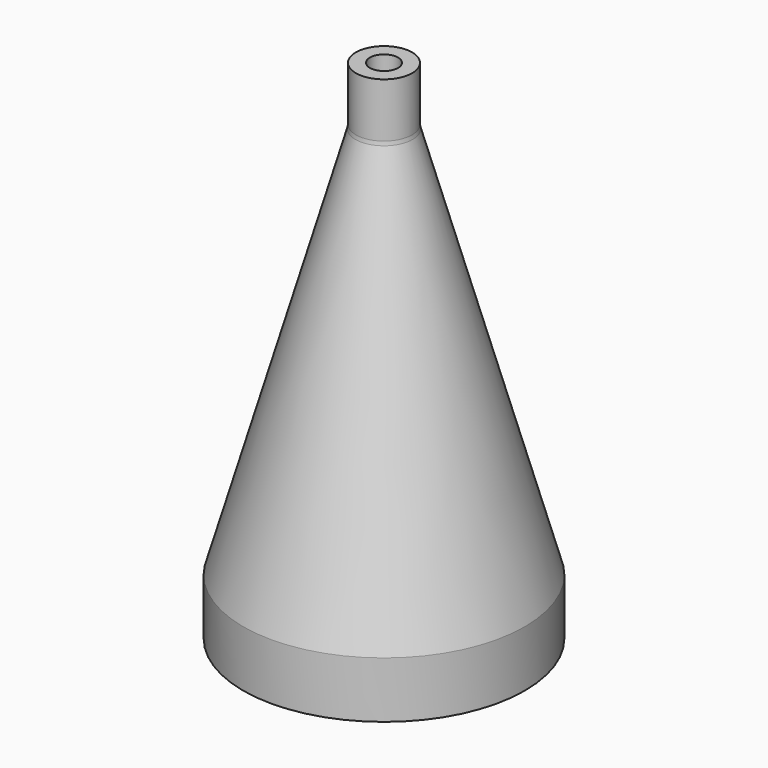
from build123d import *

# Parameters (mm, degrees)
F0_R     = 127
F1_DEPTH = 406.4
F2_SIZE2 = 101.6
F2_SIZE  = 355.6
F3_T     = -6.35
F4_R     = 12.7
F5_DEPTH = 25.4
F6_R     = 25.4
F6_R_2   = 12.7
F7_DEPTH = 50.8
F8_R     = 12.7


with BuildPart() as f1:
    # F0 (on Top) → F1 (new body)
    with BuildSketch(Plane.XY):
        Circle(F0_R)
    extrude(amount=F1_DEPTH)

    # F2
    f2_edges = [f1.edges().sort_by_distance(p)[0] for p in [
        (-127, 0, 406.4),
    ]]
    f2_side = f1.faces().sort_by_distance((-127, 0, 203.2))[0]
    chamfer(f2_edges, length=F2_SIZE, length2=F2_SIZE2, reference=f2_side)

    # F3
    f3_openings = [f1.faces().sort_by_distance(p)[0] for p in [
        (0, 0, 0),
    ]]
    offset(amount=F3_T, openings=f3_openings)

    # F4 (on face) → F5 (cut)
    with BuildSketch(Plane.XY.offset(406.4)):
        Circle(F4_R)
    extrude(amount=-F5_DEPTH, mode=Mode.SUBTRACT)

    # F6 (on face) → F7 (join)
    with BuildSketch(Plane.XY.offset(406.4)):
        Circle(F6_R)
        Circle(F6_R_2, mode=Mode.SUBTRACT)
    extrude(amount=F7_DEPTH)

    # F8
    f8_edges = [f1.edges().sort_by_distance(p)[0] for p in [
        (-25.4, 0, 406.4),
    ]]
    fillet(f8_edges, radius=F8_R)


solid = f1.part
